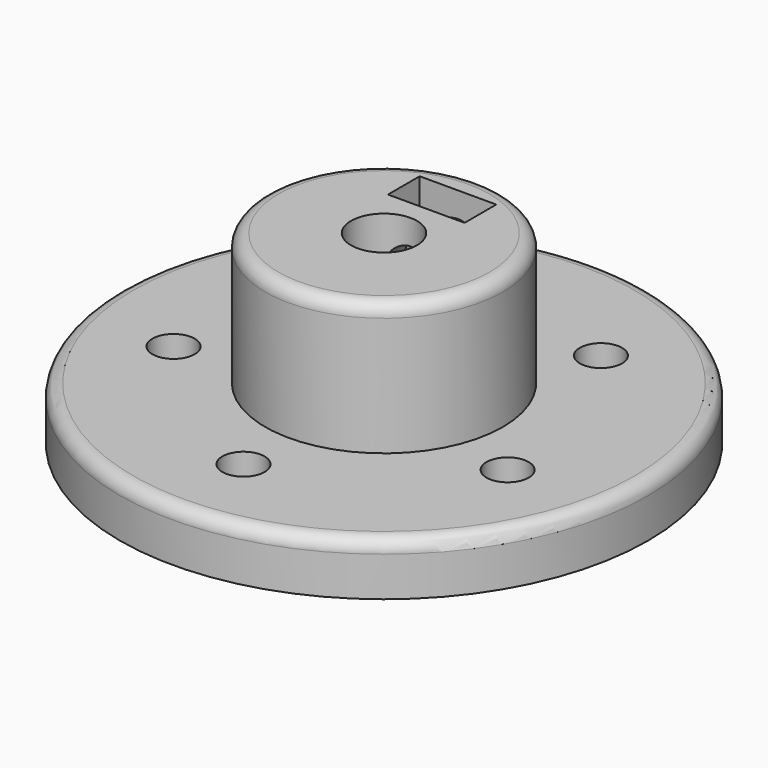
from build123d import *

# Parameters (mm, degrees)
SKETCH_R             = 20
PAD_DEPTH            = 4
SKETCH001_R          = 1.6
POCKET_DEPTH         = 117.420575
POLARPATTERN_COUNT   = 5
SKETCH002_R          = 9
PAD001_DEPTH         = 10
SKETCH003_R          = 2.5
POCKET001_DEPTH      = 14.001
SKETCH004_W          = 5.8
SKETCH004_H          = 3
POCKET002_DEPTH      = 6.5
SKETCH005_R          = 1.6
POCKET003_DEPTH      = 6
POCKET003_DEPTH_BACK = -6
FILLET_R             = 1


with BuildPart() as part:
    # Sketch → Pad (new body)
    with BuildSketch(Plane.XY):
        Circle(SKETCH_R)
    extrude(amount=PAD_DEPTH)

    # Sketch001 (on Face3 of Pad) → Pocket (cut, through all)
    with BuildSketch(Plane.XY.offset(4)):
        with Locations((0, -13.3)):
            Circle(SKETCH001_R)
    pocket = extrude(amount=-POCKET_DEPTH, mode=Mode.SUBTRACT)

    # PolarPattern: Pocket ×5 about axis
    polarpattern_axis = Axis((0, 0, 4), (0, 0, 1))
    for i in range(1, POLARPATTERN_COUNT):
        add(pocket.rotate(polarpattern_axis, i * 360 / POLARPATTERN_COUNT), mode=Mode.SUBTRACT)

    # Sketch002 (on Face3 of PolarPattern) → Pad001 (join)
    with BuildSketch(Plane.XY.offset(4)):
        Circle(SKETCH002_R)
    extrude(amount=PAD001_DEPTH)

    # Sketch003 (on Face10 of Pad001) → Pocket001 (cut, through all)
    with BuildSketch(Plane.XY.offset(14)):
        Circle(SKETCH003_R)
    extrude(amount=-POCKET001_DEPTH, mode=Mode.SUBTRACT)

    # Sketch004 (on Face11 of Pocket001) → Pocket002 (cut)
    with BuildSketch(Plane.XY.offset(14)):
        with Locations((0, 5.5)):
            Rectangle(SKETCH004_W, SKETCH004_H)
    extrude(amount=-POCKET002_DEPTH, mode=Mode.SUBTRACT)

    # Sketch005 (on Face15 of Pocket002) → Pocket003 (cut, two sides)
    with BuildSketch(Plane.XZ.offset(-7)) as pocket003_sk:
        with Locations((0, 10.5)):
            Circle(SKETCH005_R)
    extrude(amount=-POCKET003_DEPTH, mode=Mode.SUBTRACT)
    extrude(pocket003_sk.sketch, amount=-POCKET003_DEPTH_BACK, mode=Mode.SUBTRACT)

    # Fillet
    fillet_edges = [part.edges().sort_by_distance(p)[0] for p in [
        (-20, 0, 4),
        (-9, 0, 14),
    ]]
    fillet(fillet_edges, radius=FILLET_R)


solid = part.part
